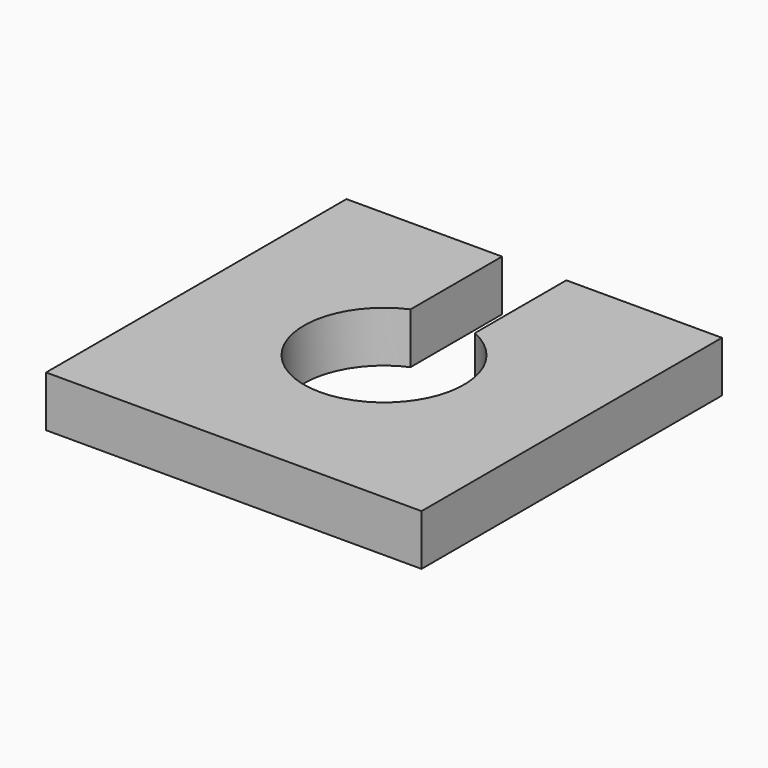
from build123d import *

# Parameters (mm, degrees)
F0_W     = 140.2
F0_H     = 140.2
F0_R     = 29.9
F1_DEPTH = 19
F3_DEPTH = 19


with BuildPart() as f1:
    # F0 (on Top) → F1 (new body)
    with BuildSketch(Plane.XY):
        Rectangle(F0_W, F0_H)
        Circle(F0_R, mode=Mode.SUBTRACT)
    extrude(amount=F1_DEPTH)

    # F2 (on face) → F3 (cut)
    with BuildSketch(Plane.XY.offset(19)):
        with BuildLine():
            Line((12, 70.1), (-12, 70.1))
            Line((-12, 70.1), (-12, 27.38631))
            ThreePointArc((-12, 27.38631), (0, 29.9), (12, 27.38631))
            Line((12, 27.38631), (12, 70.1))
        make_face()
    extrude(amount=-F3_DEPTH, mode=Mode.SUBTRACT)


solid = f1.part
